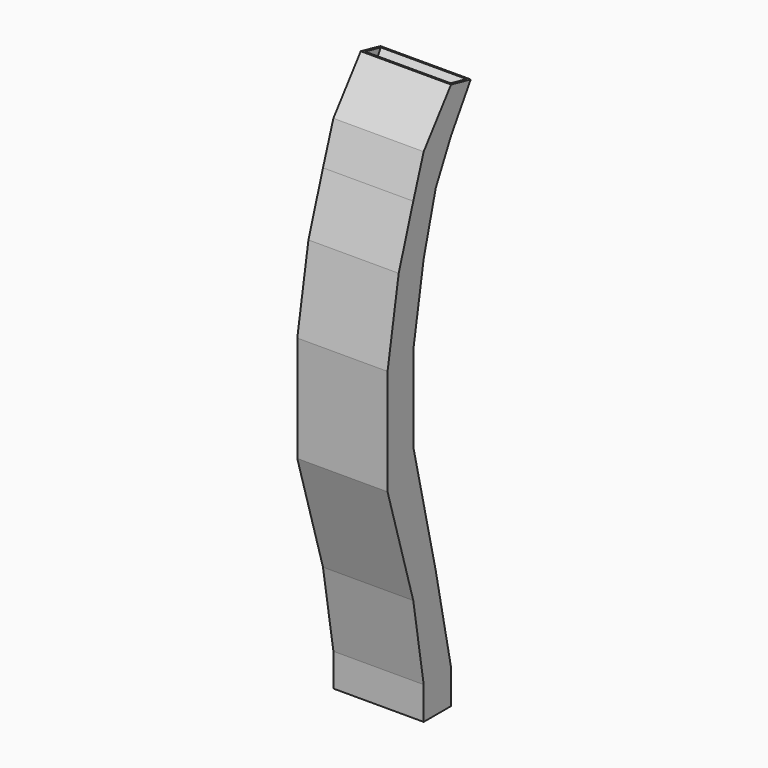
from build123d import *

# Parameters (mm, degrees)
F1_DEPTH = 101.6
F2_T     = -2.54


with BuildPart() as f1:
    # F0 (on Right) → F1 (new body)
    with BuildSketch(Plane.YZ):
        Polygon((53.1090894751, 316.3454540171), (80.8181880827, 360.9878815302), (53.1090894751, 367.1454756031), (14.6242498083, 316.3454540171), align=None)
        Polygon((31.5575774684, 273.2424150596), (53.1090894751, 316.3454540171), (14.6242498083, 316.3454540171), (0, 273.2424150596), align=None)
        Polygon((14.6242498083, 210.1272850298), (31.5575774684, 273.2424150596), (0, 273.2424150596), (-20.4879219231, 210.1272850298), align=None)
        Polygon((0, 125.4606056329), (14.6242498083, 210.1272850298), (-20.4879219231, 210.1272850298), (-36.1757530975, 119.3030314855), align=None)
        Polygon((0, 30.0181814408), (0, 125.4606056329), (-36.1757530975, 119.3030314855), (-36.1757530975, 0), align=None)
        Polygon((31.5575774684, -105.4484846724), (0, 30.0181814408), (-36.1757530975, 0), (0, -122.3818185592), align=None)
        Polygon((53.1090894751, -210.1272850298), (31.5575774684, -105.4484846724), (0, -122.3818185592), (14.6242498083, -211.6666735853), align=None)
        Polygon((53.1090894751, -248.6121184698), (53.1090894751, -210.1272850298), (14.6242498083, -211.6666735853), (14.6242498083, -248.6121184698), align=None)
    extrude(amount=F1_DEPTH)

    # F2
    f2_openings = [f1.faces().sort_by_distance(p)[0] for p in [
        (50.8, 66.963639, 364.066679),
        (50.8, 33.86667, -248.612118),
    ]]
    offset(amount=F2_T, openings=f2_openings, kind=Kind.INTERSECTION)


solid = f1.part
